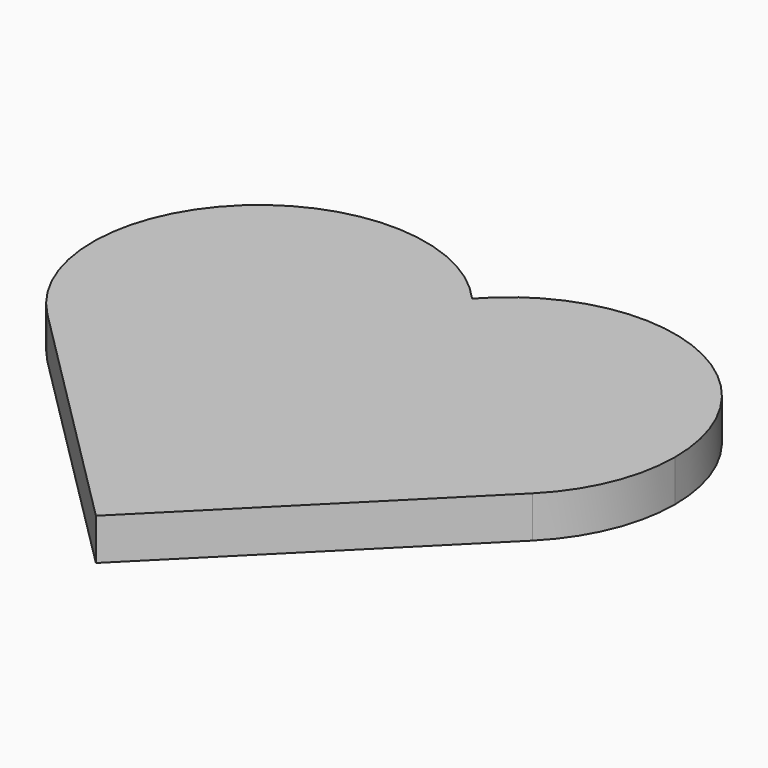
from build123d import *

# Parameters (mm, degrees)
F1_DEPTH = 6.35


with BuildPart() as f1:
    # F0 (on Top) → F1 (new body)
    with BuildSketch(Plane.XY):
        with BuildLine():
            ThreePointArc((19.05, -16.8005208253), (23.759524406, -8.9802561211), (25.4, 0))
            ThreePointArc((25.4, 0), (23.759524406, 8.9802561211), (19.05, 16.8005208253))
            ThreePointArc((19.05, 16.8005208253), (12.7, 0), (19.05, -16.8005208253))
        make_face()
        with BuildLine():
            ThreePointArc((19.05, 16.8005208253), (23.759524406, 8.9802561211), (25.4, 0))
            ThreePointArc((25.4, 0), (23.759524406, -8.9802561211), (19.05, -16.8005208253))
            ThreePointArc((19.05, -16.8005208253), (37.3042984759, -25.3875335368), (56.0605122421, -17.9605122421))
            ThreePointArc((56.0605122421, -17.9605122421), (61.5665401258, -9.7201591821), (63.5, 0))
            ThreePointArc((63.5, 0), (47.0802561211, 23.759524406), (19.05, 16.8005208253))
        make_face()
        with BuildLine():
            ThreePointArc((19.05, -16.8005208253), (12.7, 0), (19.05, 16.8005208253))
            ThreePointArc((19.05, 16.8005208253), (-17.389051178, 18.514343065), (-17.9605122421, -17.9605122421))
            ThreePointArc((-17.9605122421, -17.9605122421), (0.7957015241, -25.3875335368), (19.05, -16.8005208253))
        make_face()
        with BuildLine():
            ThreePointArc((56.0605122421, -17.9605122421), (37.3042984759, -25.3875335368), (19.05, -16.8005208253))
            ThreePointArc((19.05, -16.8005208253), (0.7957015241, -25.3875335368), (-17.9605122421, -17.9605122421))
            Line((-17.9605122421, -17.9605122421), (19.05, -54.9710244843))
            Line((19.05, -54.9710244843), (56.0605122421, -17.9605122421))
        make_face()
    extrude(amount=F1_DEPTH)


solid = f1.part
